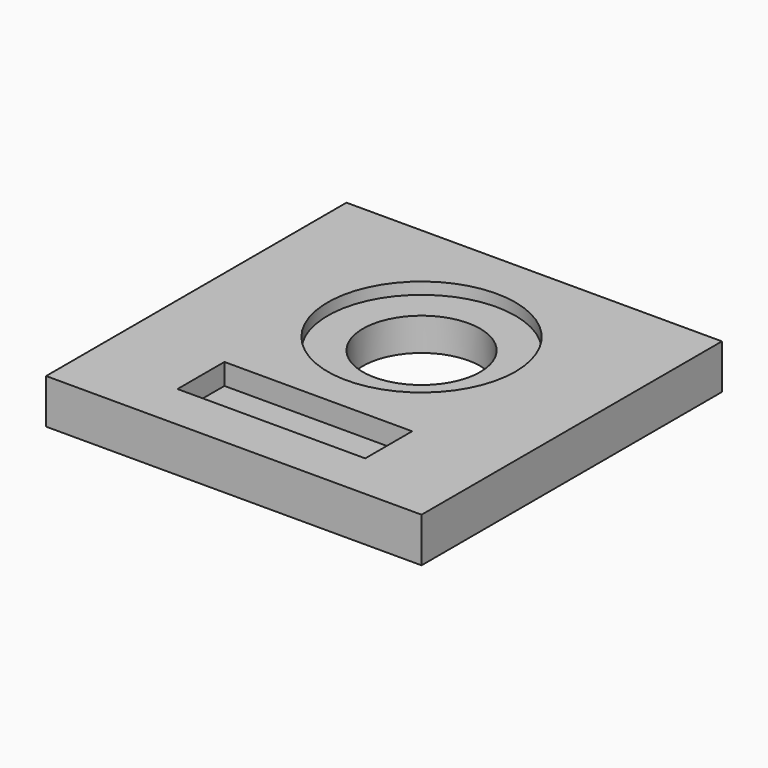
from build123d import *

# Parameters (mm, degrees)
F0_W     = 160
F0_H     = 160
F0_W_2   = 80
F0_H_2   = 25
F0_R     = 40
F1_DEPTH = 19
F0_R_2   = 25
F2_DEPTH = 14
F3_DEPTH = 10


with BuildPart() as f1:
    # F0 (on Top) → F1 (new body)
    with BuildSketch(Plane.XY):
        with Locations((80, 80)):
            Rectangle(F0_W, F0_H)
        with Locations((80, 32.5)):
            Rectangle(F0_W_2, F0_H_2, mode=Mode.SUBTRACT)
        with Locations((80, 100)):
            Circle(F0_R, mode=Mode.SUBTRACT)
    extrude(amount=F1_DEPTH)

    # F0 (on Top) → F2 (join)
    with BuildSketch(Plane.XY):
        with Locations((80, 100)):
            Circle(F0_R)
        with Locations((80, 100)):
            Circle(F0_R_2, mode=Mode.SUBTRACT)
    extrude(amount=F2_DEPTH)

    # F0 (on Top) → F3 (join)
    with BuildSketch(Plane.XY):
        with Locations((80, 32.5)):
            Rectangle(F0_W_2, F0_H_2)
    extrude(amount=F3_DEPTH)


solid = f1.part
